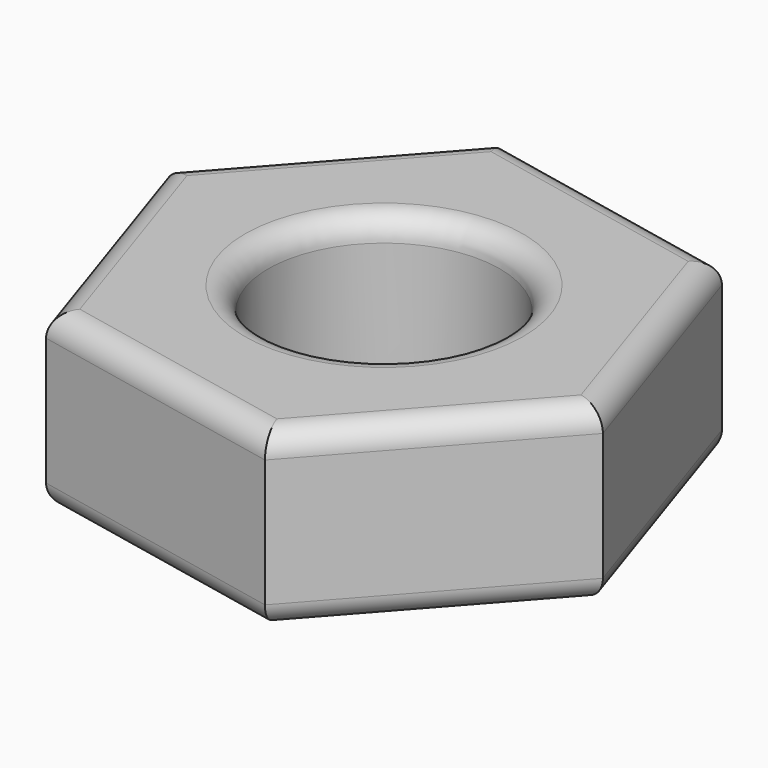
from build123d import *

# Parameters (mm, degrees)
F1_DEPTH = 1.5
F2_R     = 1
F3_DEPTH = 25
F4_R     = 0.2


with BuildPart() as f1:
    # F0 (on Top) → F1 (new body)
    with BuildSketch(Plane.XY):
        Polygon((2.2617237946, -0.4668391698), (1.5351564778, 1.7252906776), (-0.7265673168, 2.1921298473), (-2.2617237946, 0.4668391698), (-1.5351564778, -1.7252906776), (0.7265673168, -2.1921298473), align=None)
    extrude(amount=F1_DEPTH)

    # F2 (on face) → F3 (cut)
    with BuildSketch(Plane.XY.offset(1.5)):
        Circle(F2_R)
    extrude(amount=-F3_DEPTH, mode=Mode.SUBTRACT)

    # F4
    f4_edges = [f1.edges().sort_by_distance(p)[0] for p in [
        (-1, 0, 1.5),
        (1.494146, -1.329485, 1.5),
        (-0.404295, -1.95871, 1.5),
        (1.89844, 0.629226, 1.5),
        (-1.89844, -0.629226, 1.5),
        (0.404295, 1.95871, 1.5),
        (-1.494146, 1.329485, 1.5),
        (1.494146, -1.329485, 0),
        (-0.404295, -1.95871, 0),
        (1.89844, 0.629226, 0),
        (-1.89844, -0.629226, 0),
        (0.404295, 1.95871, 0),
        (-1.494146, 1.329485, 0),
        (-1, 0, 0),
    ]]
    fillet(f4_edges, radius=F4_R)


solid = f1.part
